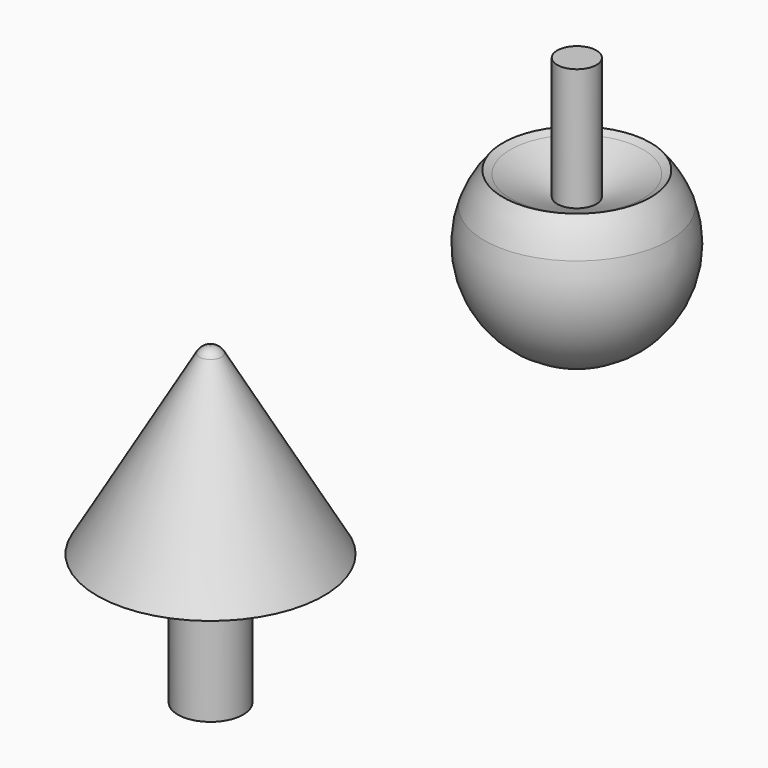
from build123d import *

# Parameters (mm, degrees)
F3_R      = 3
F4_DEPTH  = 20
F8_R      = 5
F9_DEPTH  = 20
F11_R     = 1.5
F12_DEPTH = 2
F13_R     = 1.9


with BuildPart() as f2:
    # F1 (on Front) → F2 (revolve)
    with BuildSketch(Plane.XZ):
        with BuildLine():
            Line((14.1421356237, 5), (0, 5))
            Line((0, 5), (0, -15))
            ThreePointArc((0, -15), (12.2474487139, -8.6602540378), (14.1421356237, 5))
        make_face()
        with BuildLine():
            Line((10.1417394379, 9.3425854591), (14.1421356237, 5))
            ThreePointArc((14.1421356237, 5), (12.9458687575, 7.5765745634), (11.285288763, 9.8814096937))
            Line((11.285288763, 9.8814096937), (10.1417394379, 9.3425854591))
        make_face()
        Polygon((10.1417394379, 9.3425854591), (0, 5), (14.1421356237, 5), align=None)
    revolve(axis=Axis((0, 0, -5), (0, 0, -1)))

    # F3 (on offset) → F4 (join)
    with BuildSketch(Plane.XY.offset(5)):
        Circle(F3_R)
    extrude(amount=F4_DEPTH)


with BuildPart() as f2_1:
    # F5: moved
    add(f2.part.moved(Location((56, 0, 50))))


with BuildPart() as f7:
    # F6 (on Front) → F7 (revolve)
    with BuildSketch(Plane.XZ):
        Polygon((-17.3205080757, -10), (0, -10), (0, 20), align=None)
    revolve(axis=Axis((0, 0, 5), (0, 0, 1)))

    # F8 (on face) → F9 (join)
    with BuildSketch(Plane(origin=(0, 0, -10), x_dir=(1, 0, 0), z_dir=(0, 0, -1))):
        Circle(F8_R)
    extrude(amount=F9_DEPTH)

    # F11 (on offset) → F12 (cut)
    with BuildSketch(Plane.XY.offset(18)):
        Circle(F11_R)
    extrude(amount=F12_DEPTH, mode=Mode.SUBTRACT)

    # F13
    f13_edges = [f7.edges().sort_by_distance(p)[0] for p in [
        (1.154701, 0, 18),
    ]]
    fillet(f13_edges, radius=F13_R)


solid = Compound([f2_1.part, f7.part])
